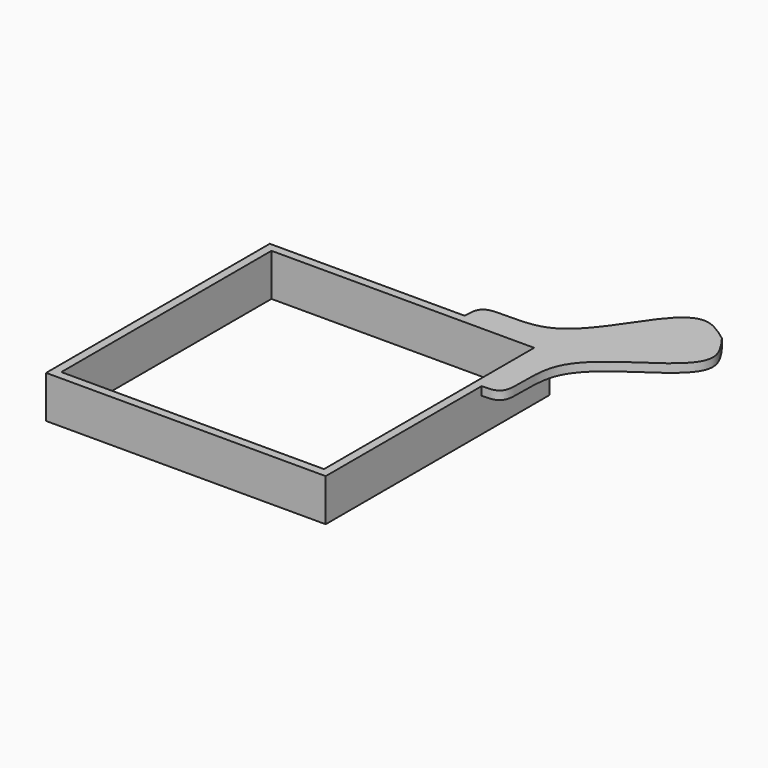
from build123d import *

# Parameters (mm, degrees)
F0_W     = 155
F0_H     = 155
F1_DEPTH = 25
F2_DEPTH = 5


with BuildPart() as f1:
    # F0 (on Top) → F1 (new body)
    with BuildSketch(Plane.XY):
        Polygon((-82.5, -82.5), (82.5, -82.5), (82.5, 32.5), (82.5, 82.5), (32.5, 82.5), (-82.5, 82.5), align=None)
        Rectangle(F0_W, F0_H, mode=Mode.SUBTRACT)
    extrude(amount=-F1_DEPTH)

    # F0 (on Top) → F2 (join)
    with BuildSketch(Plane.XY):
        with BuildLine():
            Line((82.5, 82.5), (82.5, 32.5))
            add(Edge.make_bspline(
                [(82.5, 32.5), (86.8568552967, 32.5467875772), (98.7982483922, 32.6750243013), (87.129540577, 76.3163545482), (135.8925766094, 101.0867595208), (152.2722367234, 121.0998774434), (143.3848898482, 133.1945046313), (139.0685424949, 139.0685424949)],
                knots=[0, 0, 0, 0, 0.1314216026, 0.3602040718, 0.6423027085, 0.8262759652, 1, 1, 1, 1], degree=3))
            add(Edge.make_bspline(
                [(32.5, 82.5), (32.5467875772, 86.8568552967), (32.6750243013, 98.7982483922), (76.3163545482, 87.129540577), (101.0867595208, 135.8925766094), (121.0998774434, 152.2722367234), (133.1945046313, 143.3848898482), (139.0685424949, 139.0685424949)],
                knots=[0, 0, 0, 0, 0.1314216026, 0.3602040718, 0.6423027085, 0.8262759652, 1, 1, 1, 1], degree=3))
            Line((32.5, 82.5), (82.5, 82.5))
        make_face()
    extrude(amount=-F2_DEPTH)


solid = f1.part
